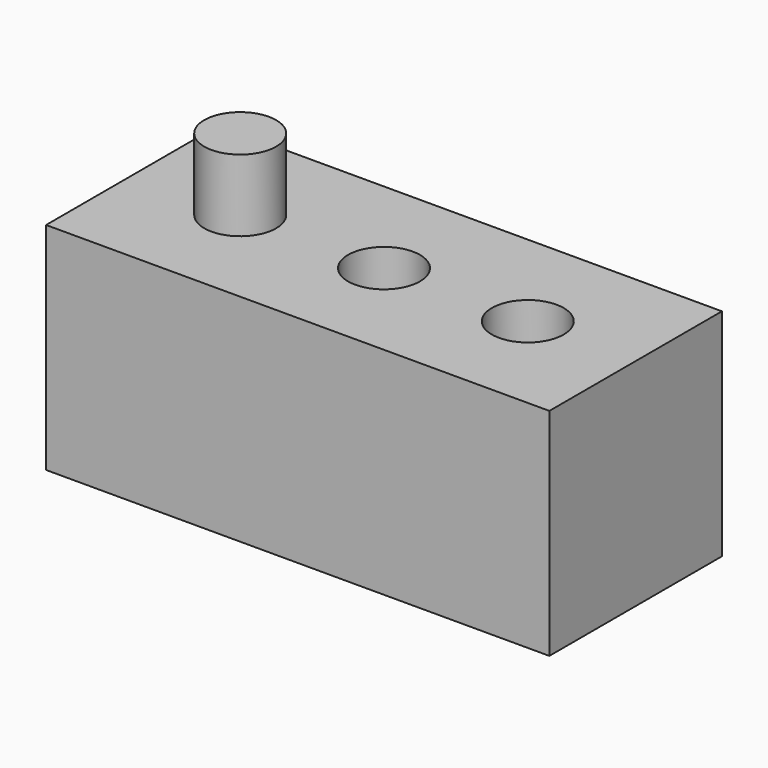
from build123d import *

# Parameters (mm, degrees)
F0_W     = 140
F0_H     = 60
F1_DEPTH = 60
F2_R     = 10
F3_DEPTH = 20
F4_R     = 10
F5_DEPTH = 65
F6_R     = 10
F7_DEPTH = 20


with BuildPart() as f1:
    # F0 (on Front) → F1 (new body)
    with BuildSketch(Plane.XZ):
        Rectangle(F0_W, F0_H)
    extrude(amount=F1_DEPTH)

    # F2 (on face) → F3 (join)
    with BuildSketch(Plane.XY.offset(30)):
        with Locations((-40, -30)):
            Circle(F2_R)
    extrude(amount=F3_DEPTH)

    # F4 (on face) → F5 (cut)
    with BuildSketch(Plane.XY.offset(30)):
        with Locations((0, -30)):
            Circle(F4_R)
    extrude(amount=-F5_DEPTH, mode=Mode.SUBTRACT)

    # F6 (on face) → F7 (cut)
    with BuildSketch(Plane.XY.offset(30)):
        with Locations((40, -30)):
            Circle(F6_R)
    extrude(amount=-F7_DEPTH, mode=Mode.SUBTRACT)


solid = f1.part
